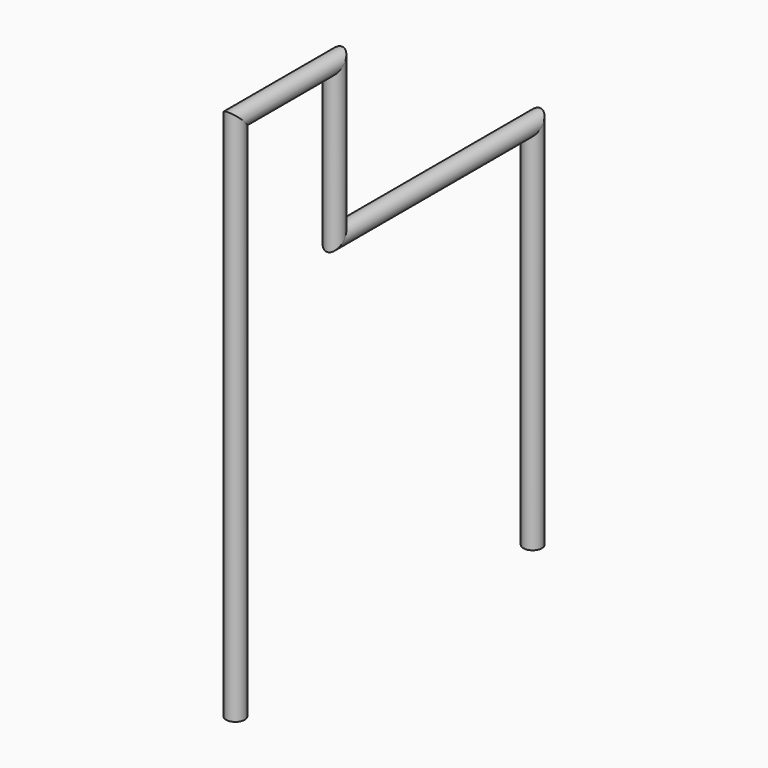
from build123d import *

# Parameters (mm, degrees)
F1_R = 15


with BuildPart() as f2:
    # F2: sweep along a path in F0
    with BuildLine(Plane.YZ) as f2_path:
        Line((0, 0), (0, 850))
        Line((0, 850), (200, 850))
        Line((200, 850), (200, 600))
        Line((200, 600), (600, 600))
        Line((600, 600), (600, 0))
    # F1 (on Top) → F2 (sweep)
    with BuildSketch(Plane.XY):
        Circle(F1_R)
    sweep(path=f2_path.line, transition=Transition.RIGHT)


solid = f2.part
